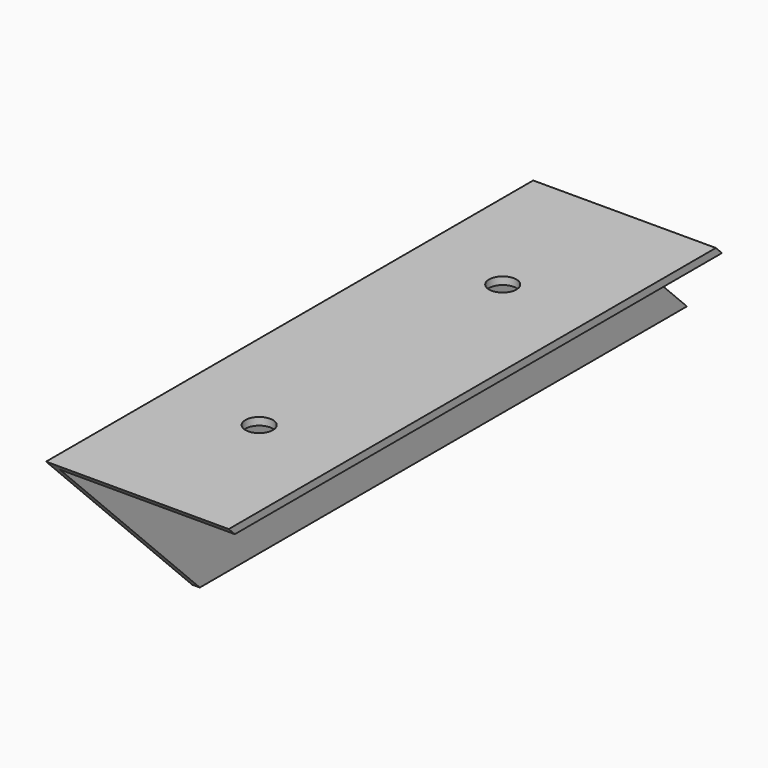
from build123d import *

# Parameters (mm, degrees)
F1_DEPTH = 260
F3_DEPTH = 60.001
F4_R     = 4.5
F5_DEPTH = 60.001


with BuildPart() as f1:
    # F0 (on Front) → F1 (new body)
    with BuildSketch(Plane.XZ):
        Polygon((60, 0), (0, 0), (0, -60), (2.5, -60), (2.5, -2.5), (60, -2.5), align=None)
    extrude(amount=F1_DEPTH)

    # F2 (on face) → F3 (cut, through all)
    with BuildSketch(Plane(origin=(0, 0, 0), x_dir=(0, -1, 0), z_dir=(-1, 0, 0))):
        Polygon((0, 0), (0, -60), (60, 0), align=None)
        Polygon((260, -60), (260, 0), (200, -60), align=None)
    extrude(amount=-F3_DEPTH, mode=Mode.SUBTRACT)

    # F4 (on face) → F5 (cut, through all)
    with BuildSketch(Plane.XY):
        with Locations((30, -110)):
            Circle(F4_R)
        with Locations((30, -210)):
            Circle(F4_R)
    extrude(amount=-F5_DEPTH, mode=Mode.SUBTRACT)


solid = f1.part
